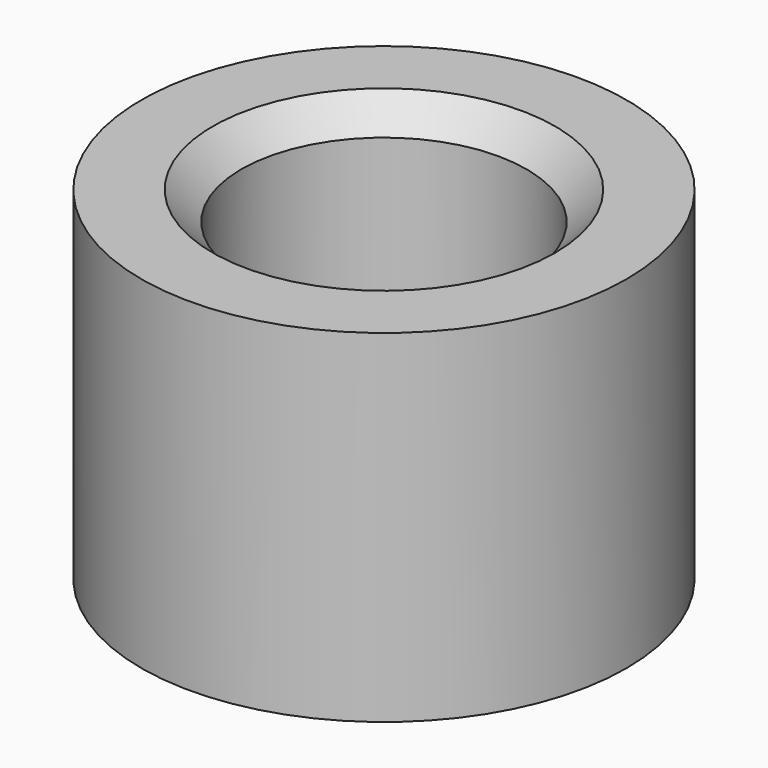
from build123d import *

# Parameters (mm, degrees)
SKETCH_R     = 4.25
SKETCH_R_2   = 2.5
PAD_DEPTH    = 6
CHAMFER_SIZE = 0.5


with BuildPart() as part:
    # Sketch → Pad (new body)
    with BuildSketch(Plane.XY):
        Circle(SKETCH_R)
        Circle(SKETCH_R_2, mode=Mode.SUBTRACT)
    extrude(amount=PAD_DEPTH)

    # Chamfer
    chamfer_edges = [part.edges().sort_by_distance(p)[0] for p in [
        (-2.5, 0, 6),
    ]]
    chamfer(chamfer_edges, length=CHAMFER_SIZE)


solid = part.part
